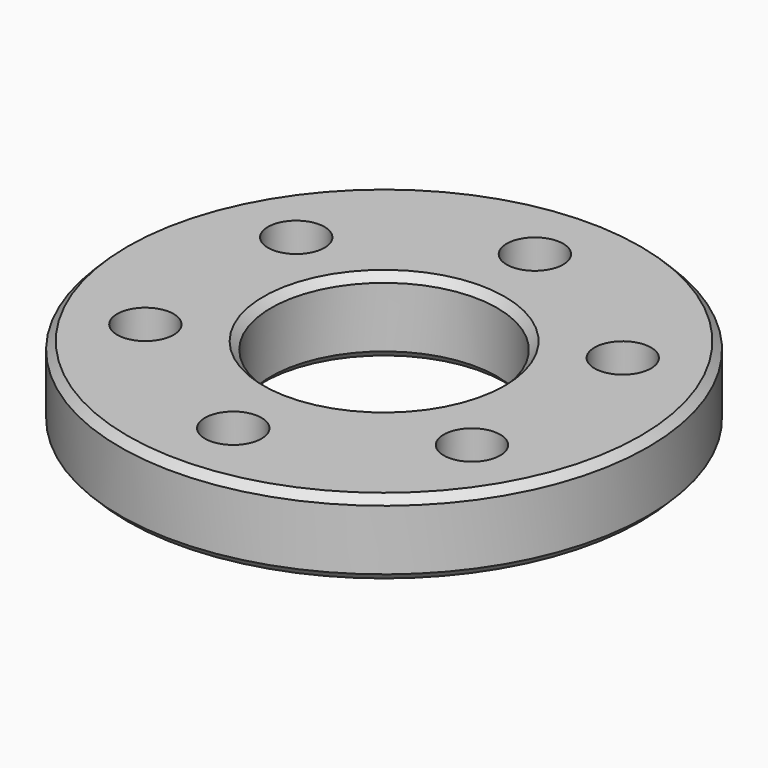
from build123d import *

# Parameters (mm, degrees)
F0_R     = 88.9
F0_R_2   = 9.525
F0_R_3   = 38.1
F1_DEPTH = 25.4
F2_SIZE  = 2.54


with BuildPart() as f1:
    # F0 (on Top) → F1 (new body)
    with BuildSketch(Plane.XY):
        Circle(F0_R)
        with Locations((-54.992613, -31.75)):
            Circle(F0_R_2, mode=Mode.SUBTRACT)
        with Locations((0, -63.5)):
            Circle(F0_R_2, mode=Mode.SUBTRACT)
        with Locations((54.992613, -31.75)):
            Circle(F0_R_2, mode=Mode.SUBTRACT)
        with Locations((-54.992613, 31.75)):
            Circle(F0_R_2, mode=Mode.SUBTRACT)
        Circle(F0_R_3, mode=Mode.SUBTRACT)
        with Locations((54.992613, 31.75)):
            Circle(F0_R_2, mode=Mode.SUBTRACT)
        with Locations((0, 63.5)):
            Circle(F0_R_2, mode=Mode.SUBTRACT)
    extrude(amount=F1_DEPTH)

    # F2
    f2_edges = [f1.edges().sort_by_distance(p)[0] for p in [
        (-38.1, 0, 25.4),
        (-88.9, 0, 25.4),
        (-88.9, 0, 0),
        (-38.1, 0, 0),
    ]]
    chamfer(f2_edges, length=F2_SIZE)


solid = f1.part
